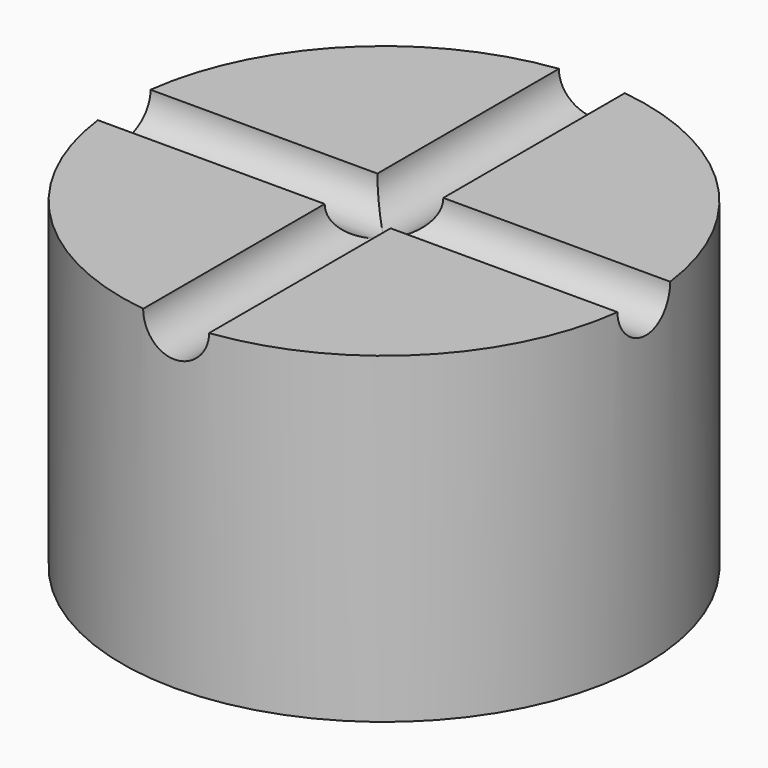
from build123d import *

# Parameters (mm, degrees)
SKETCH_R      = 162.5
PAD_DEPTH     = 200
SKETCH001_R   = 20.44
HOLE_DEPTH    = 337.501
SKETCH002_R   = 20.44
HOLE001_DEPTH = 337.501


with BuildPart() as part:
    # Sketch → Pad (new body)
    with BuildSketch(Plane.XY):
        Circle(SKETCH_R)
    extrude(amount=PAD_DEPTH)

    # Sketch001 → Hole (cut, through all)
    with BuildSketch(Plane.YZ.offset(175)):
        with Locations((0, 199.9)):
            Circle(SKETCH001_R)
    extrude(amount=-HOLE_DEPTH, mode=Mode.SUBTRACT)

    # Sketch002 → Hole001 (cut, through all)
    with BuildSketch(Plane.XZ.offset(175)):
        with Locations((0, 199.9)):
            Circle(SKETCH002_R)
    extrude(amount=-HOLE001_DEPTH, mode=Mode.SUBTRACT)


solid = part.part
